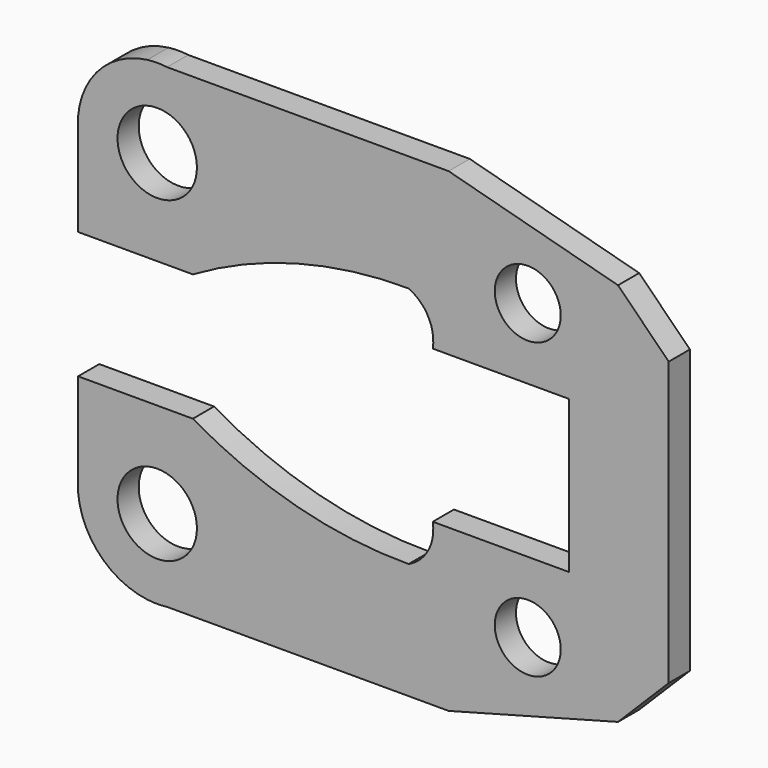
from build123d import *

# Parameters (mm, degrees)
F0_R     = 9.525
F0_R_2   = 7.91296
F1_DEPTH = 3.175


with BuildPart() as f1:
    # F0 (on Front) → F1 (new body, symmetric)
    with BuildSketch(Plane.XZ):
        with BuildLine():
            ThreePointArc((-57.934586, 57.001762), (-60.306483, 57.15), (-62.67838, 57.001762))
            Line((-62.67838, 57.001762), (-57.934586, 57.001762))
        make_face()
        with BuildLine():
            Line((-57.934586, 57.001762), (-62.67838, 57.001762))
            ThreePointArc((-62.67838, 57.001762), (-74.064603, 51.276367), (-79.29303, 39.653556))
            Line((-79.29303, 39.653556), (-79.29303, 15.24))
            Line((-79.29303, 15.24), (-51.752072, 15.24))
            ThreePointArc((-51.752072, 15.24), (-26.806955, 25.649029), (0, 29.112254))
            ThreePointArc((0, 29.112254), (4.725363, 24.672997), (5.803779, 18.279791))
            Line((5.803779, 18.279791), (38.5414, 18.279791))
            Line((38.5414, 18.279791), (38.5414, 0))
            Line((38.5414, 0), (38.5414, -18.279791))
            Line((38.5414, -18.279791), (5.803779, -18.279791))
            ThreePointArc((5.803779, -18.279791), (4.725363, -24.672997), (0, -29.112254))
            ThreePointArc((0, -29.112254), (-26.806955, -25.649029), (-51.752072, -15.24))
            Line((-51.752072, -15.24), (-79.29303, -15.24))
            Line((-79.29303, -15.24), (-79.29303, -39.653556))
            ThreePointArc((-79.29303, -39.653556), (-74.064603, -51.276367), (-62.67838, -57.001762))
            Line((-62.67838, -57.001762), (-57.934586, -57.001762))
            Line((-57.934586, -57.001762), (9.60697, -57.001762))
            Line((9.60697, -57.001762), (50.24697, -46.112307))
            Line((50.24697, -46.112307), (62.4174, -33.941876))
            Line((62.4174, -33.941876), (62.4174, -5.23346))
            Line((62.4174, -5.23346), (62.4174, 5.23346))
            Line((62.4174, 5.23346), (62.4174, 33.941876))
            Line((62.4174, 33.941876), (50.24697, 46.112307))
            Line((50.24697, 46.112307), (9.60697, 57.001762))
            Line((9.60697, 57.001762), (-57.934586, 57.001762))
        make_face()
        with Locations((-60.306483, -38.1)):
            Circle(F0_R, mode=Mode.SUBTRACT)
        with Locations((28.593517, -35.27448)):
            Circle(F0_R_2, mode=Mode.SUBTRACT)
        with Locations((-60.306483, 38.1)):
            Circle(F0_R, mode=Mode.SUBTRACT)
        with Locations((28.593517, 35.27448)):
            Circle(F0_R_2, mode=Mode.SUBTRACT)
        with BuildLine():
            ThreePointArc((-62.67838, -57.001762), (-60.306483, -57.15), (-57.934586, -57.001762))
            Line((-57.934586, -57.001762), (-62.67838, -57.001762))
        make_face()
    extrude(amount=F1_DEPTH, both=True)


solid = f1.part
